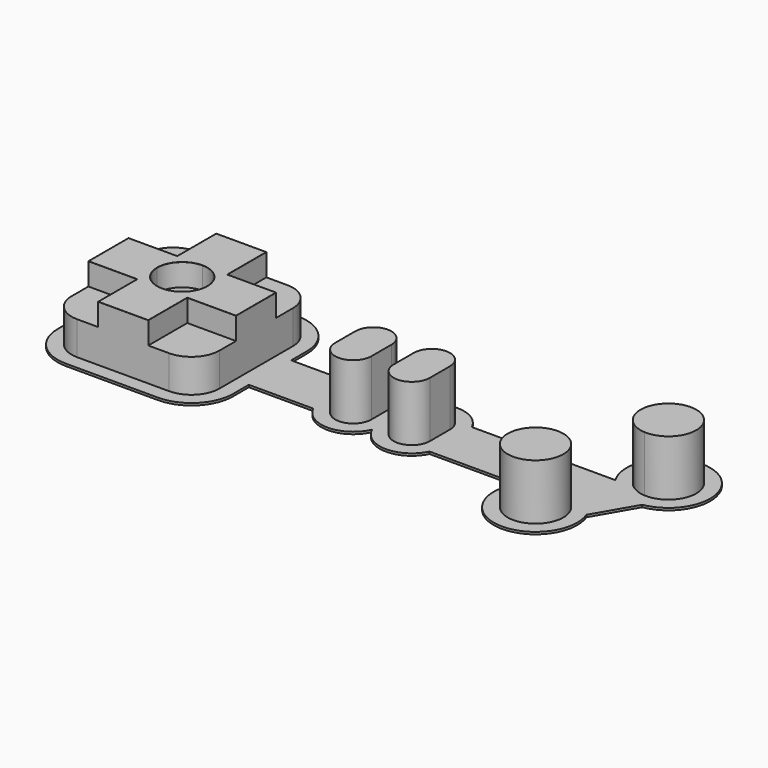
from build123d import *

# Parameters (mm, degrees)
F0_W     = 6.5
F0_H     = 4.5
F0_W_2   = 4
F0_W_3   = 16
F1_DEPTH = 0.4
F2_W     = 6.5
F2_H     = 4.5
F3_DEPTH = 10
F5_DEPTH = 4
F6_R     = 0.0241421356


with BuildPart() as f1:
    # F0 (on Top) → F1 (new body)
    with BuildSketch(Plane.XY):
        with BuildLine():
            Line((8.25, 15.75), (-8.25, 15.75))
            ThreePointArc((-8.25, 15.75), (-13.5533008589, 13.5533008589), (-15.75, 8.25))
            Line((-15.75, 8.25), (-15.75, -8.25))
            ThreePointArc((-15.75, -8.25), (-13.5533008589, -13.5533008589), (-8.25, -15.75))
            Line((-8.25, -15.75), (8.25, -15.75))
            ThreePointArc((8.25, -15.75), (13.5533008589, -13.5533008589), (15.75, -8.25))
            Line((15.75, -8.25), (15.75, -4.75))
            Line((15.75, -4.75), (27.3219212057, -4.75))
            ThreePointArc((27.3219212057, -4.75), (32.5853423404, -7.9993666334), (37.75, -4.5952078799))
            ThreePointArc((37.75, -4.5952078799), (42.9146576596, -7.9993666334), (48.1780787943, -4.75))
            Line((48.1780787943, -4.75), (63.9376083391, -4.75))
            ThreePointArc((63.9376083391, -4.75), (69.6369704789, -16.1274567319), (77.3532689299, -6.0087617221))
            Line((77.3532689299, -6.0087617221), (81.5491755468, 1.2587617221))
            ThreePointArc((81.5491755468, 1.2587617221), (83.4644385935, 15.4773568118), (73.9376083391, 4.75))
            Line((73.9376083391, 4.75), (48.1780787943, 4.75))
            ThreePointArc((48.1780787943, 4.75), (42.9146576596, 7.9993666334), (37.75, 4.5952078799))
            ThreePointArc((37.75, 4.5952078799), (32.5853423404, 7.9993666334), (27.3219212057, 4.75))
            Line((27.3219212057, 4.75), (15.75, 4.75))
            Line((15.75, 4.75), (15.75, 8.25))
            ThreePointArc((15.75, 8.25), (13.5533008589, 13.5533008589), (8.25, 15.75))
        make_face()
        with BuildLine():
            ThreePointArc((-13.25, 8.25), (-11.7855339059, 11.7855339059), (-8.25, 13.25))
            Line((-8.25, 13.25), (-4.5, 13.25))
            Line((-4.5, 13.25), (4.5, 13.25))
            Line((4.5, 13.25), (8.25, 13.25))
            ThreePointArc((8.25, 13.25), (11.7855339059, 11.7855339059), (13.25, 8.25))
            Line((13.25, 8.25), (13.25, 4.5))
            Line((13.25, 4.5), (13.25, 2.25))
            Line((13.25, 2.25), (29.25, 2.25))
            ThreePointArc((29.25, 2.25), (32.5, 5.5), (35.75, 2.25))
            Line((35.75, 2.25), (39.75, 2.25))
            ThreePointArc((39.75, 2.25), (43, 5.5), (46.25, 2.25))
            Line((46.25, 2.25), (74.0385634647, 2.25))
            Line((74.0385634647, 2.25), (76.1564730244, 5.9183269633))
            ThreePointArc((76.1564730244, 5.9183269633), (82.8376015704, 12.9903810568), (80.0535873414, 3.6683269633))
            Line((80.0535873414, 3.6683269633), (74.5187301163, -5.9183269633))
            ThreePointArc((74.5187301163, -5.9183269633), (67.8376015704, -12.9903810568), (70.6216157993, -3.6683269633))
            Line((70.6216157993, -3.6683269633), (71.4404872533, -2.25))
            Line((71.4404872533, -2.25), (46.25, -2.25))
            ThreePointArc((46.25, -2.25), (43, -5.5), (39.75, -2.25))
            Line((39.75, -2.25), (35.75, -2.25))
            ThreePointArc((35.75, -2.25), (32.5, -5.5), (29.25, -2.25))
            Line((29.25, -2.25), (13.25, -2.25))
            Line((13.25, -2.25), (13.25, -4.5))
            Line((13.25, -4.5), (13.25, -8.25))
            ThreePointArc((13.25, -8.25), (11.7855339059, -11.7855339059), (8.25, -13.25))
            Line((8.25, -13.25), (4.5, -13.25))
            Line((4.5, -13.25), (-4.5, -13.25))
            Line((-4.5, -13.25), (-8.25, -13.25))
            ThreePointArc((-8.25, -13.25), (-11.7855339059, -11.7855339059), (-13.25, -8.25))
            Line((-13.25, -8.25), (-13.25, -4.5))
            Line((-13.25, -4.5), (-13.25, 4.5))
            Line((-13.25, 4.5), (-13.25, 8.25))
        make_face(mode=Mode.SUBTRACT)
        Polygon((4.5, -4.5), (0, -4.5), (-4.5, -4.5), (-4.5, -13.25), (4.5, -13.25), align=None)
        with BuildLine():
            Line((76.1564730244, 5.9183269633), (74.0385634647, 2.25))
            Line((74.0385634647, 2.25), (71.4404872533, -2.25))
            Line((71.4404872533, -2.25), (70.6216157993, -3.6683269633))
            ThreePointArc((70.6216157993, -3.6683269633), (72.8376015704, -4.3301270189), (74.5187301163, -5.9183269633))
            Line((74.5187301163, -5.9183269633), (80.0535873414, 3.6683269633))
            ThreePointArc((80.0535873414, 3.6683269633), (77.8376015704, 4.3301270189), (76.1564730244, 5.9183269633))
        make_face()
        with Locations((32.5, 0)):
            Rectangle(F0_W, F0_H)
        with BuildLine():
            ThreePointArc((35.75, 2.25), (32.5, 5.5), (29.25, 2.25))
            Line((29.25, 2.25), (35.75, 2.25))
        make_face()
        Polygon((74.0385634647, 2.25), (46.25, 2.25), (46.25, -2.25), (71.4404872533, -2.25), align=None)
        with BuildLine():
            Line((35.75, -2.25), (29.25, -2.25))
            ThreePointArc((29.25, -2.25), (32.5, -5.5), (35.75, -2.25))
        make_face()
        with Locations((37.75, 0)):
            Rectangle(F0_W_2, F0_H)
        Polygon((-4.5, 0), (-4.5, 4.5), (-13.25, 4.5), (-13.25, -4.5), (-4.5, -4.5), align=None)
        with BuildLine():
            ThreePointArc((46.25, 2.25), (43, 5.5), (39.75, 2.25))
            Line((39.75, 2.25), (46.25, 2.25))
        make_face()
        with BuildLine():
            Line((-4.5, -4.5), (-13.25, -4.5))
            Line((-13.25, -4.5), (-13.25, -8.25))
            ThreePointArc((-13.25, -8.25), (-11.7855339059, -11.7855339059), (-8.25, -13.25))
            Line((-8.25, -13.25), (-4.5, -13.25))
            Line((-4.5, -13.25), (-4.5, -4.5))
        make_face()
        with BuildLine():
            Line((13.25, -4.5), (4.5, -4.5))
            Line((4.5, -4.5), (4.5, -13.25))
            Line((4.5, -13.25), (8.25, -13.25))
            ThreePointArc((8.25, -13.25), (11.7855339059, -11.7855339059), (13.25, -8.25))
            Line((13.25, -8.25), (13.25, -4.5))
        make_face()
        with BuildLine():
            Line((46.25, -2.25), (39.75, -2.25))
            ThreePointArc((39.75, -2.25), (43, -5.5), (46.25, -2.25))
        make_face()
        with BuildLine():
            ThreePointArc((74.5187301163, -5.9183269633), (72.8376015704, -4.3301270189), (70.6216157993, -3.6683269633))
            ThreePointArc((70.6216157993, -3.6683269633), (67.8376015704, -12.9903810568), (74.5187301163, -5.9183269633))
        make_face()
        with BuildLine():
            ThreePointArc((80.0535873414, 3.6683269633), (82.8376015704, 12.9903810568), (76.1564730244, 5.9183269633))
            ThreePointArc((76.1564730244, 5.9183269633), (77.8376015704, 4.3301270189), (80.0535873414, 3.6683269633))
        make_face()
        Polygon((13.25, 4.5), (4.5, 4.5), (4.5, 0), (4.5, -4.5), (13.25, -4.5), (13.25, -2.25), (13.25, 2.25), align=None)
        with BuildLine():
            Line((-4.5, 13.25), (-8.25, 13.25))
            ThreePointArc((-8.25, 13.25), (-11.7855339059, 11.7855339059), (-13.25, 8.25))
            Line((-13.25, 8.25), (-13.25, 4.5))
            Line((-13.25, 4.5), (-4.5, 4.5))
            Line((-4.5, 4.5), (-4.5, 13.25))
        make_face()
        Polygon((4.5, 13.25), (-4.5, 13.25), (-4.5, 4.5), (0, 4.5), (4.5, 4.5), align=None)
        with BuildLine():
            Line((8.25, 13.25), (4.5, 13.25))
            Line((4.5, 13.25), (4.5, 4.5))
            Line((4.5, 4.5), (13.25, 4.5))
            Line((13.25, 4.5), (13.25, 8.25))
            ThreePointArc((13.25, 8.25), (11.7855339059, 11.7855339059), (8.25, 13.25))
        make_face()
        with Locations((21.25, 0)):
            Rectangle(F0_W_3, F0_H)
        with Locations((43, 0)):
            Rectangle(F0_W, F0_H)
        with BuildLine():
            ThreePointArc((0, 4.5), (-3.1819805153, 3.1819805153), (-4.5, 0))
            ThreePointArc((-4.5, 0), (-3.1819805153, -3.1819805153), (0, -4.5))
            ThreePointArc((0, -4.5), (3.1819805153, -3.1819805153), (4.5, 0))
            ThreePointArc((4.5, 0), (3.1819805153, 3.1819805153), (0, 4.5))
        make_face()
        with BuildLine():
            Line((4.5, 0), (4.5, 4.5))
            Line((4.5, 4.5), (0, 4.5))
            ThreePointArc((0, 4.5), (3.1819805153, 3.1819805153), (4.5, 0))
        make_face()
        with BuildLine():
            Line((4.5, -4.5), (4.5, 0))
            ThreePointArc((4.5, 0), (3.1819805153, -3.1819805153), (0, -4.5))
            Line((0, -4.5), (4.5, -4.5))
        make_face()
        with BuildLine():
            ThreePointArc((0, -4.5), (-3.1819805153, -3.1819805153), (-4.5, 0))
            Line((-4.5, 0), (-4.5, -4.5))
            Line((-4.5, -4.5), (0, -4.5))
        make_face()
        with BuildLine():
            Line((0, 4.5), (-4.5, 4.5))
            Line((-4.5, 4.5), (-4.5, 0))
            ThreePointArc((-4.5, 0), (-3.1819805153, 3.1819805153), (0, 4.5))
        make_face()
    extrude(amount=F1_DEPTH)

    # F2 (on face) → F3 (join)
    with BuildSketch(Plane.XY.offset(0.4)):
        Polygon((4.5, 13.25), (-4.5, 13.25), (-4.5, 4.5), (0, 4.5), (4.5, 4.5), align=None)
        Polygon((-4.5, 0), (-4.5, 4.5), (-13.25, 4.5), (-13.25, -4.5), (-4.5, -4.5), align=None)
        Polygon((13.25, 4.5), (4.5, 4.5), (4.5, 0), (4.5, -4.5), (13.25, -4.5), (13.25, -2.25), (13.25, 2.25), align=None)
        Polygon((4.5, -4.5), (0, -4.5), (-4.5, -4.5), (-4.5, -13.25), (4.5, -13.25), align=None)
        with BuildLine():
            Line((4.5, -4.5), (4.5, 0))
            ThreePointArc((4.5, 0), (3.1819805153, -3.1819805153), (0, -4.5))
            Line((0, -4.5), (4.5, -4.5))
        make_face()
        with BuildLine():
            ThreePointArc((0, -4.5), (-3.1819805153, -3.1819805153), (-4.5, 0))
            Line((-4.5, 0), (-4.5, -4.5))
            Line((-4.5, -4.5), (0, -4.5))
        make_face()
        with BuildLine():
            Line((0, 4.5), (-4.5, 4.5))
            Line((-4.5, 4.5), (-4.5, 0))
            ThreePointArc((-4.5, 0), (-3.1819805153, 3.1819805153), (0, 4.5))
        make_face()
        with BuildLine():
            Line((4.5, 0), (4.5, 4.5))
            Line((4.5, 4.5), (0, 4.5))
            ThreePointArc((0, 4.5), (3.1819805153, 3.1819805153), (4.5, 0))
        make_face()
        with Locations((32.5, 0)):
            Rectangle(F2_W, F2_H)
        with BuildLine():
            ThreePointArc((35.75, 2.25), (32.5, 5.5), (29.25, 2.25))
            Line((29.25, 2.25), (35.75, 2.25))
        make_face()
        with BuildLine():
            Line((35.75, -2.25), (29.25, -2.25))
            ThreePointArc((29.25, -2.25), (32.5, -5.5), (35.75, -2.25))
        make_face()
        with BuildLine():
            ThreePointArc((46.25, 2.25), (43, 5.5), (39.75, 2.25))
            Line((39.75, 2.25), (46.25, 2.25))
        make_face()
        with Locations((43, 0)):
            Rectangle(F2_W, F2_H)
        with BuildLine():
            Line((46.25, -2.25), (39.75, -2.25))
            ThreePointArc((39.75, -2.25), (43, -5.5), (46.25, -2.25))
        make_face()
        with BuildLine():
            ThreePointArc((80.0535873414, 3.6683269633), (82.8376015704, 12.9903810568), (76.1564730244, 5.9183269633))
            ThreePointArc((76.1564730244, 5.9183269633), (76.9039498076, 5.0256927751), (77.8376015704, 4.3301270189))
            ThreePointArc((77.8376015704, 4.3301270189), (78.9068050666, 3.8693437522), (80.0535873414, 3.6683269633))
        make_face()
        with BuildLine():
            ThreePointArc((72.8376015704, -4.3301270189), (71.7683980741, -3.8693437522), (70.6216157993, -3.6683269633))
            ThreePointArc((70.6216157993, -3.6683269633), (67.8376015704, -12.9903810568), (74.5187301163, -5.9183269633))
            ThreePointArc((74.5187301163, -5.9183269633), (73.7712533331, -5.0256927751), (72.8376015704, -4.3301270189))
        make_face()
        with BuildLine():
            Line((8.25, 13.25), (4.5, 13.25))
            Line((4.5, 13.25), (4.5, 4.5))
            Line((4.5, 4.5), (13.25, 4.5))
            Line((13.25, 4.5), (13.25, 8.25))
            ThreePointArc((13.25, 8.25), (11.7855339059, 11.7855339059), (8.25, 13.25))
        make_face()
        with BuildLine():
            Line((-4.5, 13.25), (-8.25, 13.25))
            ThreePointArc((-8.25, 13.25), (-11.7855339059, 11.7855339059), (-13.25, 8.25))
            Line((-13.25, 8.25), (-13.25, 4.5))
            Line((-13.25, 4.5), (-4.5, 4.5))
            Line((-4.5, 4.5), (-4.5, 13.25))
        make_face()
        with BuildLine():
            Line((-4.5, -4.5), (-13.25, -4.5))
            Line((-13.25, -4.5), (-13.25, -8.25))
            ThreePointArc((-13.25, -8.25), (-11.7855339059, -11.7855339059), (-8.25, -13.25))
            Line((-8.25, -13.25), (-4.5, -13.25))
            Line((-4.5, -13.25), (-4.5, -4.5))
        make_face()
        with BuildLine():
            ThreePointArc((0, 4.5), (-3.1819805153, 3.1819805153), (-4.5, 0))
            ThreePointArc((-4.5, 0), (-3.1819805153, -3.1819805153), (0, -4.5))
            ThreePointArc((0, -4.5), (3.1819805153, -3.1819805153), (4.5, 0))
            ThreePointArc((4.5, 0), (3.1819805153, 3.1819805153), (0, 4.5))
        make_face()
        with BuildLine():
            Line((13.25, -4.5), (4.5, -4.5))
            Line((4.5, -4.5), (4.5, -13.25))
            Line((4.5, -13.25), (8.25, -13.25))
            ThreePointArc((8.25, -13.25), (11.7855339059, -11.7855339059), (13.25, -8.25))
            Line((13.25, -8.25), (13.25, -4.5))
        make_face()
    extrude(amount=F3_DEPTH)

    # F4 (on face) → F5 (cut)
    with BuildSketch(Plane.XY.offset(10.4)):
        with BuildLine():
            Line((8.25, 13.25), (4.5, 13.25))
            Line((4.5, 13.25), (4.5, 4.5))
            Line((4.5, 4.5), (13.25, 4.5))
            Line((13.25, 4.5), (13.25, 8.25))
            ThreePointArc((13.25, 8.25), (11.7855339059, 11.7855339059), (8.25, 13.25))
        make_face()
        with BuildLine():
            Line((-4.5, 13.25), (-8.25, 13.25))
            ThreePointArc((-8.25, 13.25), (-11.7855339059, 11.7855339059), (-13.25, 8.25))
            Line((-13.25, 8.25), (-13.25, 4.5))
            Line((-13.25, 4.5), (-4.5, 4.5))
            Line((-4.5, 4.5), (-4.5, 13.25))
        make_face()
        with BuildLine():
            Line((-4.5, -4.5), (-13.25, -4.5))
            Line((-13.25, -4.5), (-13.25, -8.25))
            ThreePointArc((-13.25, -8.25), (-11.7855339059, -11.7855339059), (-8.25, -13.25))
            Line((-8.25, -13.25), (-4.5, -13.25))
            Line((-4.5, -13.25), (-4.5, -4.5))
        make_face()
        with BuildLine():
            Line((13.25, -4.5), (4.5, -4.5))
            Line((4.5, -4.5), (4.5, -13.25))
            Line((4.5, -13.25), (8.25, -13.25))
            ThreePointArc((8.25, -13.25), (11.7855339059, -11.7855339059), (13.25, -8.25))
            Line((13.25, -8.25), (13.25, -4.5))
        make_face()
        with BuildLine():
            ThreePointArc((0, 4.5), (-3.1819805153, 3.1819805153), (-4.5, 0))
            ThreePointArc((-4.5, 0), (-3.1819805153, -3.1819805153), (0, -4.5))
            ThreePointArc((0, -4.5), (3.1819805153, -3.1819805153), (4.5, 0))
            ThreePointArc((4.5, 0), (3.1819805153, 3.1819805153), (0, 4.5))
        make_face()
    extrude(amount=-F5_DEPTH, mode=Mode.SUBTRACT)

    # F6
    f6_edges = [f1.edges().sort_by_distance(p)[0] for p in [
        (13.25, 0, 10.4),
        (8.875, -4.5, 10.4),
        (4.5, -8.875, 10.4),
        (0, -13.25, 10.4),
        (-4.5, -8.875, 10.4),
        (-8.875, -4.5, 10.4),
        (-13.25, 0, 10.4),
        (-8.875, 4.5, 10.4),
        (-4.5, 8.875, 10.4),
        (0, 13.25, 10.4),
        (4.5, 8.875, 10.4),
        (8.875, 4.5, 10.4),
        (-4.5, 0, 10.4),
    ]]
    fillet(f6_edges, radius=F6_R)


solid = f1.part
